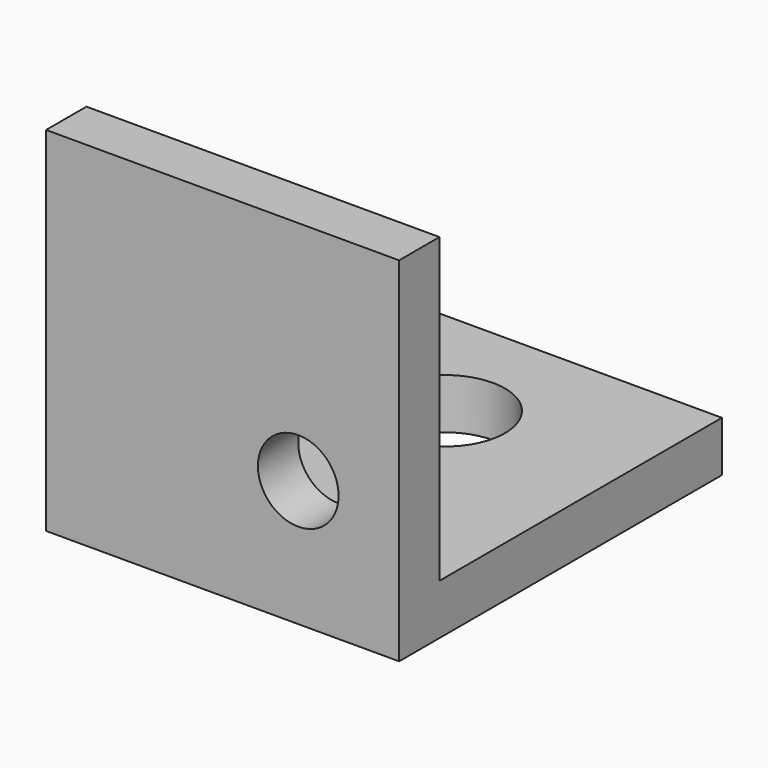
from build123d import *

# Parameters (mm, degrees)
F0_W     = 7
F0_H     = 8
F1_DEPTH = 1
F2_W     = 7
F2_H     = 1
F3_DEPTH = 6
F5_D     = 2.4
F7_D     = 1.6


with BuildPart() as f1:
    # F0 (on Top) → F1 (new body)
    with BuildSketch(Plane.XY):
        with Locations((3.5, 4)):
            Rectangle(F0_W, F0_H)
    extrude(amount=F1_DEPTH)

    # F2 (on face) → F3 (join)
    with BuildSketch(Plane.XY.offset(1)):
        with Locations((3.5, 0.5)):
            Rectangle(F2_W, F2_H)
    extrude(amount=F3_DEPTH)

    # F5 (through all)
    with Locations(Plane.XY.offset(1)):
        with Locations((3.5, 5.5)):
            Hole(F5_D / 2)

    # F7 (through all)
    with Locations(Plane.XZ):
        with Locations((5, 2.5)):
            Hole(F7_D / 2)


solid = f1.part
